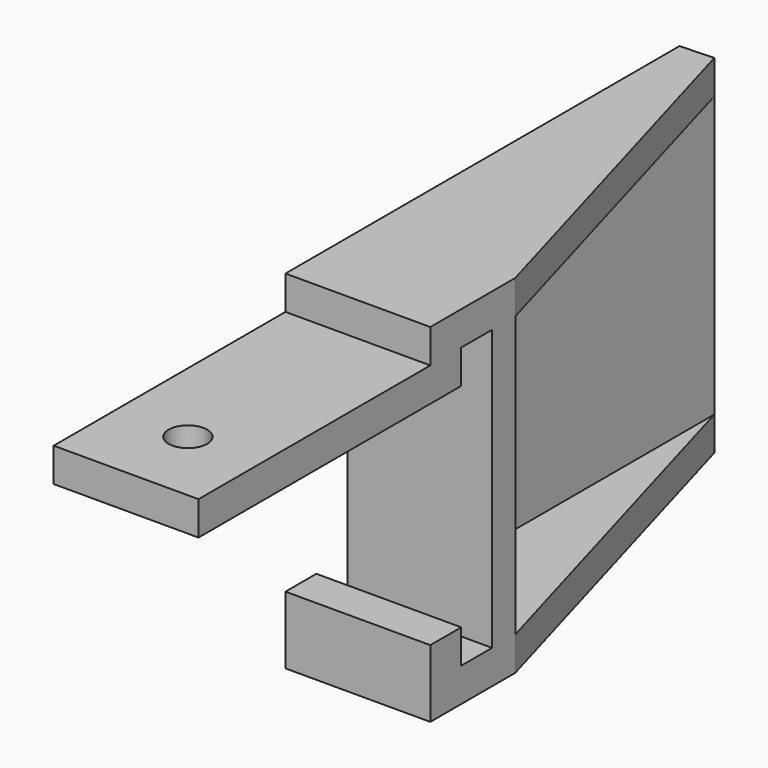
from build123d import *

# Parameters (mm, degrees)
F0_W      = 30
F0_H      = 22
F1_DEPTH  = 72
F3_DEPTH  = 72.001
F4_DEPTH  = 7
F6_DEPTH  = 7
F7_W      = 8
F7_H      = 44
F8_DEPTH  = 30.001
F9_W      = 30
F9_H      = 7
F10_DEPTH = 60
F11_R     = 4
F12_DEPTH = 65.001


with BuildPart() as f1:
    # F0 (on Top) → F1 (new body)
    with BuildSketch(Plane.XY):
        with Locations((15, 11)):
            Rectangle(F0_W, F0_H)
        Polygon((0, 102), (0, 22), (30, 22), (6.9943696583, 102.2807010551), align=None)
    extrude(amount=F1_DEPTH)

    # F2 (on face) → F3 (cut, through all)
    with BuildSketch(Plane.XY.offset(72)):
        Polygon((7, 22), (30, 22), (6.9943696583, 102.2807010551), align=None)
    extrude(amount=-F3_DEPTH, mode=Mode.SUBTRACT)

    # F2 (on face) → F4 (join)
    with BuildSketch(Plane.XY.offset(72)):
        Polygon((7, 22), (30, 22), (6.9943696583, 102.2807010551), align=None)
    extrude(amount=-F4_DEPTH)

    # F5 (on face) → F6 (join)
    with BuildSketch(Plane(origin=(0, 0, 0), x_dir=(1, 0, 0), z_dir=(0, 0, -1))):
        Polygon((6.9943696583, -102.2807010551), (30, -22), (7, -22), align=None)
    extrude(amount=-F6_DEPTH)

    # F7 (on face) → F8 (cut, through all)
    with BuildSketch(Plane.YZ.offset(30)):
        Polygon((16, 65), (8, 65), (8, 58), (8, 14), (8, 7), (16, 7), align=None)
        with Locations((4, 36)):
            Rectangle(F7_W, F7_H)
    extrude(amount=-F8_DEPTH, mode=Mode.SUBTRACT)

    # F9 (on face) → F10 (join)
    with BuildSketch(Plane.XZ):
        with Locations((15, 61.5)):
            Rectangle(F9_W, F9_H)
    extrude(amount=F10_DEPTH)

    # F11 (on face) → F12 (cut, through all)
    with BuildSketch(Plane.XY.offset(65)):
        with Locations((15, -44)):
            Circle(F11_R)
    extrude(amount=-F12_DEPTH, mode=Mode.SUBTRACT)


solid = f1.part
